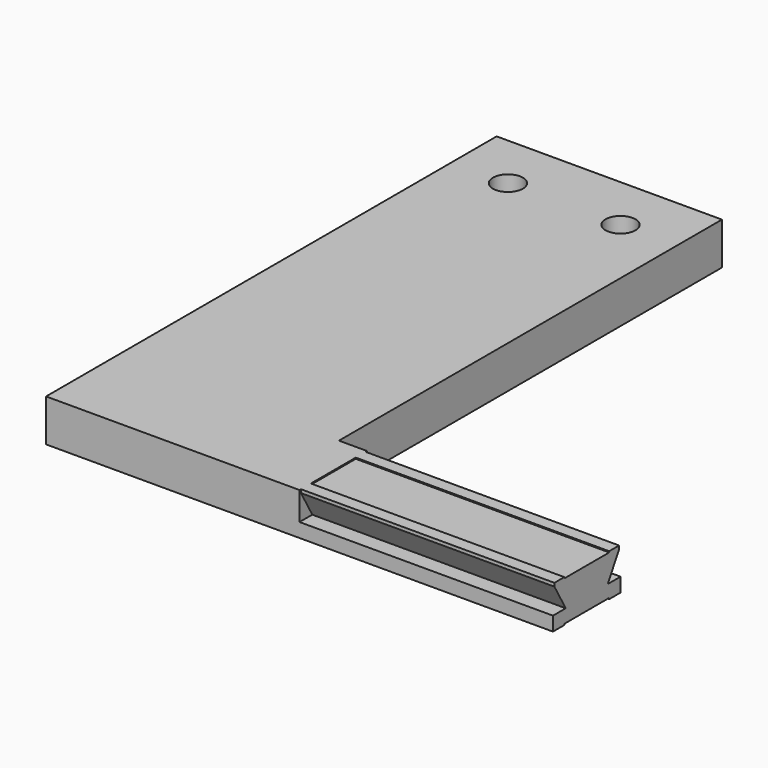
from build123d import *

# Parameters (mm, degrees)
SKETCH_R     = 3.373437
PAD_DEPTH    = 9.525
SKETCH001_W  = 12.6492
SKETCH001_H  = 0.254
POCKET_DEPTH = 57.15


with BuildPart() as part:
    # Sketch → Pad (new body)
    with BuildSketch(Plane.XY):
        Polygon((50.8, 0), (0, 0), (0, -127), (114.3, -127), (114.3, -107.95), (50.8, -107.95), align=None)
        with Locations((12.7, -12.7)):
            Circle(SKETCH_R, mode=Mode.SUBTRACT)
        with Locations((38.1, -12.7)):
            Circle(SKETCH_R, mode=Mode.SUBTRACT)
    extrude(amount=PAD_DEPTH)

    # Sketch001 → Pocket (cut)
    with BuildSketch(Plane.YZ.offset(114.3)):
        Polygon((-126.5936, 8.763), (-123.40082, 3.175), (-127, 3.175), (-127, 12.7), (-107.95, 12.7), (-107.95, 3.175), (-111.54918, 3.175), (-108.3564, 8.763), (-108.3564, 9.525), (-111.1504, 9.525), (-111.1504, 9.271), (-123.7996, 9.271), (-123.7996, 9.525), (-126.5936, 9.525), align=None)
        with Locations((-117.475, 0.127)):
            Rectangle(SKETCH001_W, SKETCH001_H)
    extrude(amount=-POCKET_DEPTH, mode=Mode.SUBTRACT)


solid = part.part
